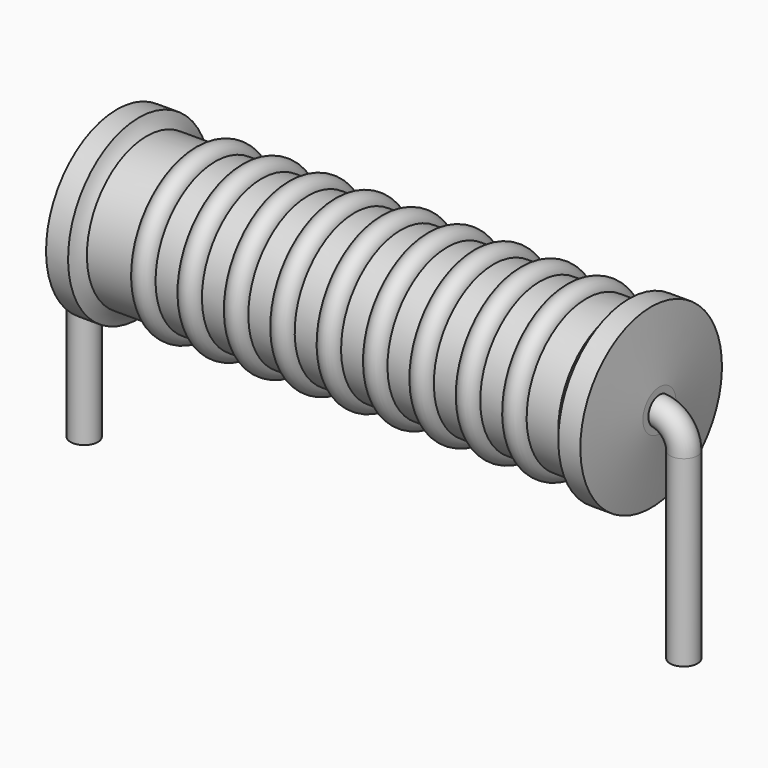
from build123d import *

# Parameters (mm, degrees)
SKETCH_R = 0.35


with BuildPart() as sweep_body:
    # Sweep: sweep along a path in Sketch001
    with BuildLine(Plane.XZ) as sweep_path:
        Line((0, -3), (0, 1.65))
        ThreePointArc((0, 1.65), (0.205028, 2.144977), (0.700007, 2.35))
        Line((0.700007, 2.35), (14.54, 2.35))
        ThreePointArc((14.54, 2.35), (15.034975, 2.144975), (15.24, 1.65))
        Line((15.24, 1.65), (15.24, -3))
    # Sketch → Sweep (sweep)
    with BuildSketch(Plane.XY.offset(-2)):
        Circle(SKETCH_R)
    sweep(path=sweep_path.line)


with BuildPart() as revolution001:
    # Sketch003 → Revolution001 (revolve)
    with BuildSketch(Plane.XZ):
        with BuildLine():
            ThreePointArc((3.338947, 4.194), (3.044211, 4.488737), (2.749474, 4.194))
            Line((2.16, 4.194), (2.749474, 4.194))
            Line((2.16, 4.194), (2.16, 3.744))
            Line((2.16, 3.744), (13.36, 3.744))
            Line((13.36, 3.744), (13.36, 4.194))
            Line((12.770526, 4.194), (13.36, 4.194))
            ThreePointArc((12.770526, 4.194), (12.475789, 4.488737), (12.181053, 4.194))
            Line((11.591579, 4.194), (12.181053, 4.194))
            ThreePointArc((11.591579, 4.194), (11.296842, 4.488737), (11.002105, 4.194))
            Line((10.412632, 4.194), (11.002105, 4.194))
            ThreePointArc((10.412632, 4.194), (10.117895, 4.488737), (9.823158, 4.194))
            Line((9.233684, 4.194), (9.823158, 4.194))
            ThreePointArc((9.233684, 4.194), (8.938947, 4.488737), (8.644211, 4.194))
            Line((8.054737, 4.194), (8.644211, 4.194))
            ThreePointArc((8.054737, 4.194), (7.76, 4.488737), (7.465263, 4.194))
            Line((6.875789, 4.194), (7.465263, 4.194))
            ThreePointArc((6.875789, 4.194), (6.581053, 4.488737), (6.286316, 4.194))
            Line((5.696842, 4.194), (6.286316, 4.194))
            ThreePointArc((5.696842, 4.194), (5.402105, 4.488737), (5.107368, 4.194))
            Line((4.517895, 4.194), (5.107368, 4.194))
            ThreePointArc((4.517895, 4.194), (4.223158, 4.488737), (3.928421, 4.194))
            Line((3.338947, 4.194), (3.928421, 4.194))
        make_face()
    revolve(axis=Axis((0.97, 0, 2.35), (1, 0, 0)))


with BuildPart() as obj1:
    # Sketch002 → Revolution (revolve)
    with BuildSketch(Plane.XZ):
        with BuildLine():
            Line((0.83, 4.6), (1.39, 4.6))
            ThreePointArc((1.39, 4.6), (1.47006, 4.414285), (1.588, 4.25))
            Line((1.588, 4.25), (13.57, 4.25))
            ThreePointArc((13.57, 4.25), (13.728036, 4.410572), (13.85, 4.6))
            Line((13.85, 4.6), (14.41, 4.6))
            ThreePointArc((14.62, 2.875), (14.516623, 3.737698), (14.41, 4.6))
            Line((14.62, 2.35), (14.62, 2.875))
            Line((0.62, 2.35), (14.62, 2.35))
            Line((0.62, 2.35), (0.62, 2.875))
            ThreePointArc((0.83, 4.6), (0.723377, 3.737698), (0.62, 2.875))
        make_face()
    revolve(axis=Axis((0.62, 0, 2.35), (1, 0, 0)))

    # obj1: union Sweep body, Revolution001
    add(sweep_body.part)
    add(revolution001.part)


solid = obj1.part
